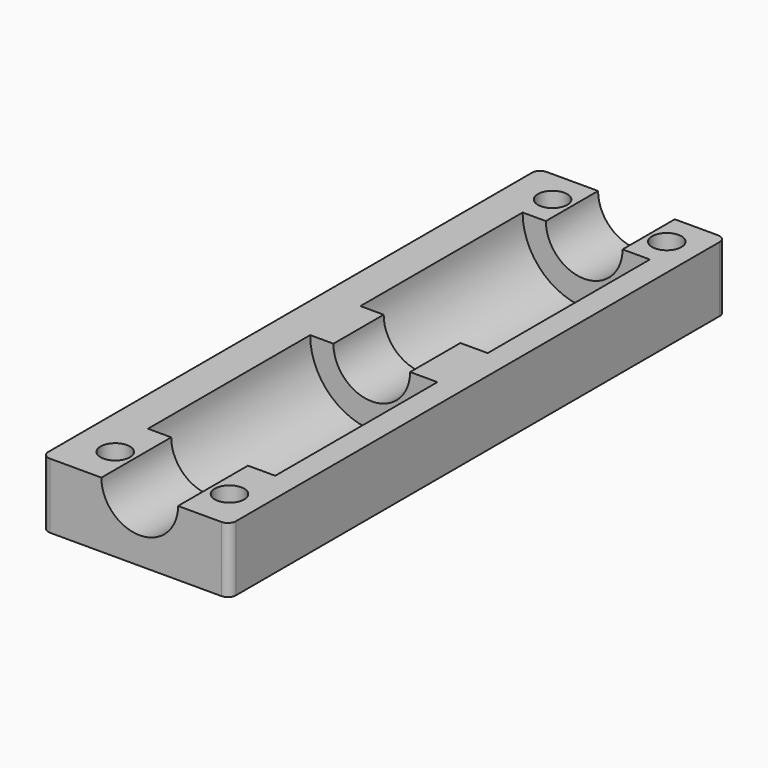
from build123d import *

# Parameters (mm, degrees)
CYLINDER049_R          = 4.7
CYLINDER049_DEPTH      = 100
CYLINDER049_ROLL_ANGLE = 90
CYLINDER045_R          = 1.8
CYLINDER045_DEPTH      = 20
CYLINDER044_R          = 3
CYLINDER044_DEPTH      = 10
CYLINDER042_R          = 1.8
CYLINDER042_DEPTH      = 20
CYLINDER041_R          = 3
CYLINDER041_DEPTH      = 10
CYLINDER034_R          = 3
CYLINDER034_DEPTH      = 10
CYLINDER033_R          = 3
CYLINDER033_DEPTH      = 10
CYLINDER031_R          = 1.8
CYLINDER031_DEPTH      = 20
CYLINDER032_R          = 1.8
CYLINDER032_DEPTH      = 20
CYLINDER029_R          = 7.8
CYLINDER029_DEPTH      = 24.85
CYLINDER029_ROLL_ANGLE = 90
CYLINDER030_R          = 4.4
CYLINDER030_DEPTH      = 76.1
CYLINDER030_ROLL_ANGLE = 90
CYLINDER028_R          = 7.8
CYLINDER028_DEPTH      = 24.85
CYLINDER028_ROLL_ANGLE = 90
BOX011_W               = 23
BOX011_H               = 76.1
BOX011_DEPTH           = 8
FILLET003002_R         = 1


with BuildPart() as cylinder049:
    # Cylinder049 → Cylinder049 (new body)
    with BuildSketch(Plane.XY):
        Circle(CYLINDER049_R)
    extrude(amount=CYLINDER049_DEPTH)


with BuildPart() as cylinder049_1:
    # Cylinder049 roll: moved
    add(cylinder049.part.rotate(Axis((0, 0, 0), (1, 0, 0)), CYLINDER049_ROLL_ANGLE))


with BuildPart() as cylinder049_2:
    # Cylinder049 placement: moved
    add(cylinder049_1.part.moved(Location((12, 79, 0))))


with BuildPart() as cilindro030:
    # Cylinder045 → Cylinder045 (new body)
    with BuildSketch(Plane(origin=(19, 5, -10), x_dir=(1, 0, 0), z_dir=(0, 0, 1))):
        Circle(CYLINDER045_R)
    extrude(amount=CYLINDER045_DEPTH)


with BuildPart() as cilindro029:
    # Cylinder044 → Cylinder044 (new body)
    with BuildSketch(Plane(origin=(19, 5, -15), x_dir=(1, 0, 0), z_dir=(0, 0, 1))):
        Circle(CYLINDER044_R)
    extrude(amount=CYLINDER044_DEPTH)


with BuildPart() as cilindro027:
    # Cylinder042 → Cylinder042 (new body)
    with BuildSketch(Plane(origin=(19, 72, -10), x_dir=(1, 0, 0), z_dir=(0, 0, 1))):
        Circle(CYLINDER042_R)
    extrude(amount=CYLINDER042_DEPTH)


with BuildPart() as cilindro026:
    # Cylinder041 → Cylinder041 (new body)
    with BuildSketch(Plane(origin=(19, 72, -15), x_dir=(1, 0, 0), z_dir=(0, 0, 1))):
        Circle(CYLINDER041_R)
    extrude(amount=CYLINDER041_DEPTH)


with BuildPart() as cilindro019:
    # Cylinder034 → Cylinder034 (new body)
    with BuildSketch(Plane(origin=(5, 72, -15), x_dir=(1, 0, 0), z_dir=(0, 0, 1))):
        Circle(CYLINDER034_R)
    extrude(amount=CYLINDER034_DEPTH)


with BuildPart() as cilindro018:
    # Cylinder033 → Cylinder033 (new body)
    with BuildSketch(Plane(origin=(5, 5, -15), x_dir=(1, 0, 0), z_dir=(0, 0, 1))):
        Circle(CYLINDER033_R)
    extrude(amount=CYLINDER033_DEPTH)


with BuildPart() as cilindro016:
    # Cylinder031 → Cylinder031 (new body)
    with BuildSketch(Plane(origin=(5, 5, -10), x_dir=(1, 0, 0), z_dir=(0, 0, 1))):
        Circle(CYLINDER031_R)
    extrude(amount=CYLINDER031_DEPTH)


with BuildPart() as cilindro017:
    # Cylinder032 → Cylinder032 (new body)
    with BuildSketch(Plane(origin=(5, 72, -10), x_dir=(1, 0, 0), z_dir=(0, 0, 1))):
        Circle(CYLINDER032_R)
    extrude(amount=CYLINDER032_DEPTH)


with BuildPart() as cylinder029:
    # Cylinder029 → Cylinder029 (new body)
    with BuildSketch(Plane.XY):
        Circle(CYLINDER029_R)
    extrude(amount=CYLINDER029_DEPTH)


with BuildPart() as cylinder029_1:
    # Cylinder029 roll: moved
    add(cylinder029.part.rotate(Axis((0, 0, 0), (1, 0, 0)), CYLINDER029_ROLL_ANGLE))


with BuildPart() as cylinder029_2:
    # Cylinder029 placement: moved
    add(cylinder029_1.part.moved(Location((12.25, 68.1, 0))))


with BuildPart() as cylinder030:
    # Cylinder030 → Cylinder030 (new body)
    with BuildSketch(Plane.XY):
        Circle(CYLINDER030_R)
    extrude(amount=CYLINDER030_DEPTH)


with BuildPart() as cylinder030_1:
    # Cylinder030 roll: moved
    add(cylinder030.part.rotate(Axis((0, 0, 0), (1, 0, 0)), CYLINDER030_ROLL_ANGLE))


with BuildPart() as cylinder030_2:
    # Cylinder030 placement: moved
    add(cylinder030_1.part.moved(Location((12.25, 76.1, 0))))


with BuildPart() as cylinder028:
    # Cylinder028 → Cylinder028 (new body)
    with BuildSketch(Plane.XY):
        Circle(CYLINDER028_R)
    extrude(amount=CYLINDER028_DEPTH)


with BuildPart() as cylinder028_1:
    # Cylinder028 roll: moved
    add(cylinder028.part.rotate(Axis((0, 0, 0), (1, 0, 0)), CYLINDER028_ROLL_ANGLE))


with BuildPart() as cylinder028_2:
    # Cylinder028 placement: moved
    add(cylinder028_1.part.moved(Location((12.25, 35.55, 0))))


with BuildPart() as obj1:
    # Box011 → Box011 (new body)
    with BuildSketch(Plane.XY.offset(-8)):
        with Locations((11.5, 38.05)):
            Rectangle(BOX011_W, BOX011_H)
    extrude(amount=BOX011_DEPTH)

    # Cut010035003006: cut Cylinder028
    add(cylinder028_2.part, mode=Mode.SUBTRACT)

    # Cut010035003007: cut Cylinder030
    add(cylinder030_2.part, mode=Mode.SUBTRACT)

    # Cut010035003008: cut Cylinder029
    add(cylinder029_2.part, mode=Mode.SUBTRACT)

    # Cut010035003009: cut Cilindro017
    add(cilindro017.part, mode=Mode.SUBTRACT)

    # Cut010035003010: cut Cilindro016
    add(cilindro016.part, mode=Mode.SUBTRACT)

    # Fillet003002
    fillet003002_edges = [obj1.edges().sort_by_distance(p)[0] for p in [
        (0, 0, -4),
        (0, 76.1, -4),
        (23, 0, -4),
        (23, 76.1, -4),
    ]]
    fillet(fillet003002_edges, radius=FILLET003002_R)

    # Cut010035003011: cut Cilindro018
    add(cilindro018.part, mode=Mode.SUBTRACT)

    # Cut010035003012: cut Cilindro019
    add(cilindro019.part, mode=Mode.SUBTRACT)

    # Cut010035003022: cut Cilindro026
    add(cilindro026.part, mode=Mode.SUBTRACT)

    # Cut010035003023: cut Cilindro027
    add(cilindro027.part, mode=Mode.SUBTRACT)

    # Cut010035003026: cut Cilindro029
    add(cilindro029.part, mode=Mode.SUBTRACT)

    # Cut010035003027: cut Cilindro030
    add(cilindro030.part, mode=Mode.SUBTRACT)

    # Cut010035003032: cut Cylinder049
    add(cylinder049_2.part, mode=Mode.SUBTRACT)


with BuildPart() as obj1_1:
    # Cut010035003032 placement: moved
    add(obj1.part.moved(Location((66, 70, 110))))


solid = obj1_1.part
